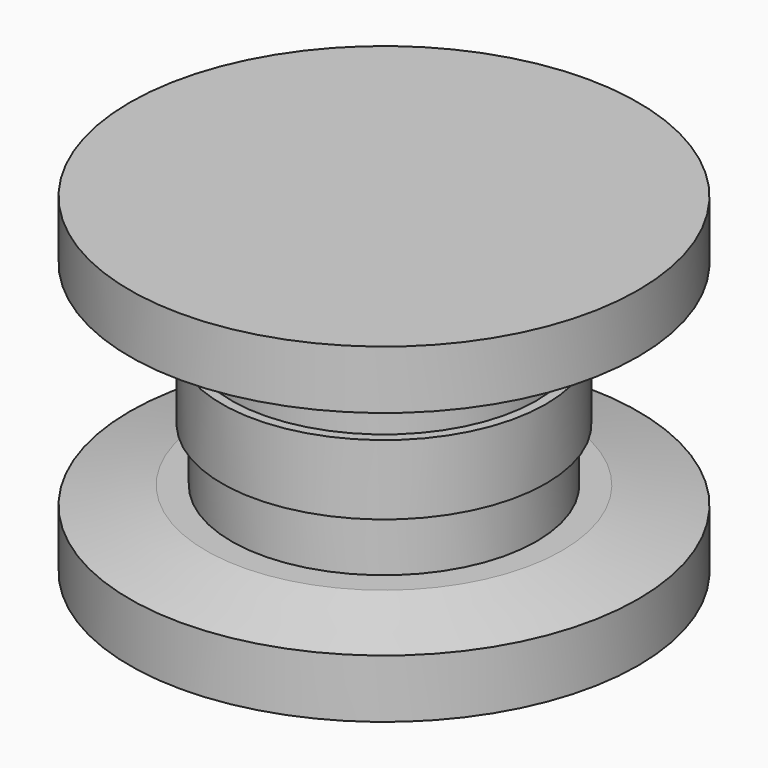
from build123d import *

# Parameters (mm, degrees)
F0_R      = 20
F1_DEPTH  = 6
F3_R      = 12
F4_DEPTH  = 4.25
F6_R      = 12.75
F7_DEPTH  = 5.5
F9_R      = 12
F10_DEPTH = 4.25
F12_R     = 20
F13_DEPTH = 6
F14_SIZE2 = 1.4
F14_SIZE  = 6
F15_SIZE2 = 6
F15_SIZE  = 1.4


with BuildPart() as f1:
    # F0 (on Top) → F1 (new body)
    with BuildSketch(Plane.XY):
        Circle(F0_R)
    extrude(amount=F1_DEPTH)

    # F3 (on offset) → F4 (join)
    with BuildSketch(Plane.XY.offset(6)):
        Circle(F3_R)
    extrude(amount=F4_DEPTH)

    # F6 (on offset) → F7 (join)
    with BuildSketch(Plane.XY.offset(10.25)):
        Circle(F6_R)
    extrude(amount=F7_DEPTH)

    # F9 (on offset) → F10 (join)
    with BuildSketch(Plane.XY.offset(15.75)):
        Circle(F9_R)
    extrude(amount=F10_DEPTH)

    # F12 (on offset) → F13 (join)
    with BuildSketch(Plane.XY.offset(20)):
        Circle(F12_R)
    extrude(amount=F13_DEPTH)

    # F14
    f14_edges = [f1.edges().sort_by_distance(p)[0] for p in [
        (-20, 0, 6),
    ]]
    f14_side = f1.faces().sort_by_distance((-19.434315, 0, 6))[0]
    chamfer(f14_edges, length=F14_SIZE, length2=F14_SIZE2, reference=f14_side)

    # F15
    f15_edges = [f1.edges().sort_by_distance(p)[0] for p in [
        (-20, 0, 20),
    ]]
    f15_side = f1.faces().sort_by_distance((-20, 0, 23))[0]
    chamfer(f15_edges, length=F15_SIZE, length2=F15_SIZE2, reference=f15_side)


solid = f1.part
